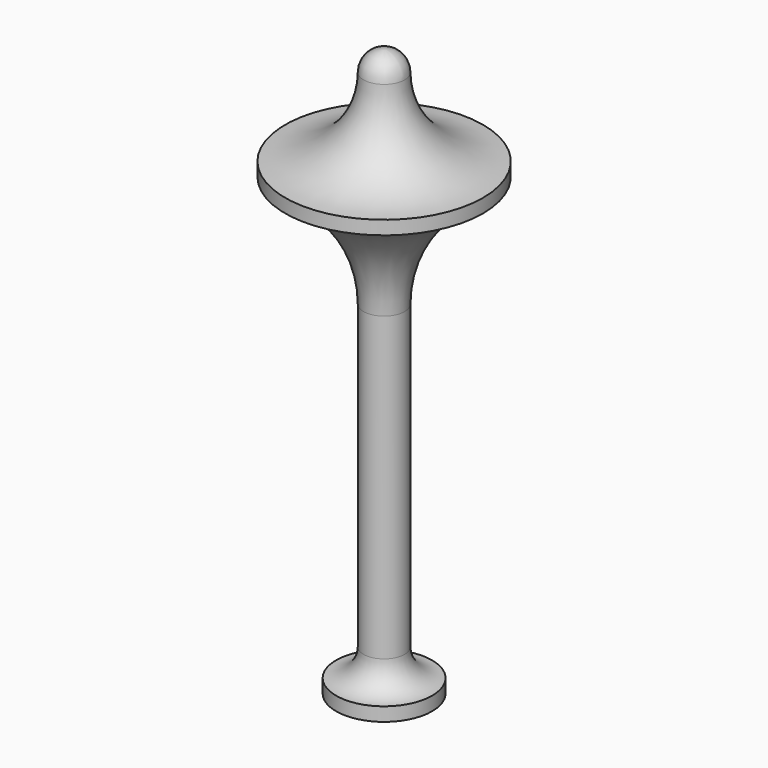
from build123d import *


with BuildPart() as f1:
    # F0 (on Front) → F1 (revolve)
    with BuildSketch(Plane.XZ):
        with BuildLine():
            Line((0, 41.375194), (0, 0))
            Line((0, 0), (3.5, 0))
            Line((3.5, 0), (3.5, 1))
            ThreePointArc((3.5, 1), (2.085786, 1.585786), (1.5, 3))
            Line((1.5, 3), (1.5, 25))
            ThreePointArc((1.5, 25), (3.070598, 29.981299), (7.214312, 33.160883))
            Line((7.214312, 33.160883), (7.214312, 34.160883))
            ThreePointArc((7.214312, 34.160883), (3.173683, 35.834566), (1.5, 39.875194))
            ThreePointArc((1.5, 39.875194), (1.06066, 40.935855), (0, 41.375194))
        make_face()
    revolve(axis=Axis((0, 0, 33.920094), (0, 0, 1)))


solid = f1.part
